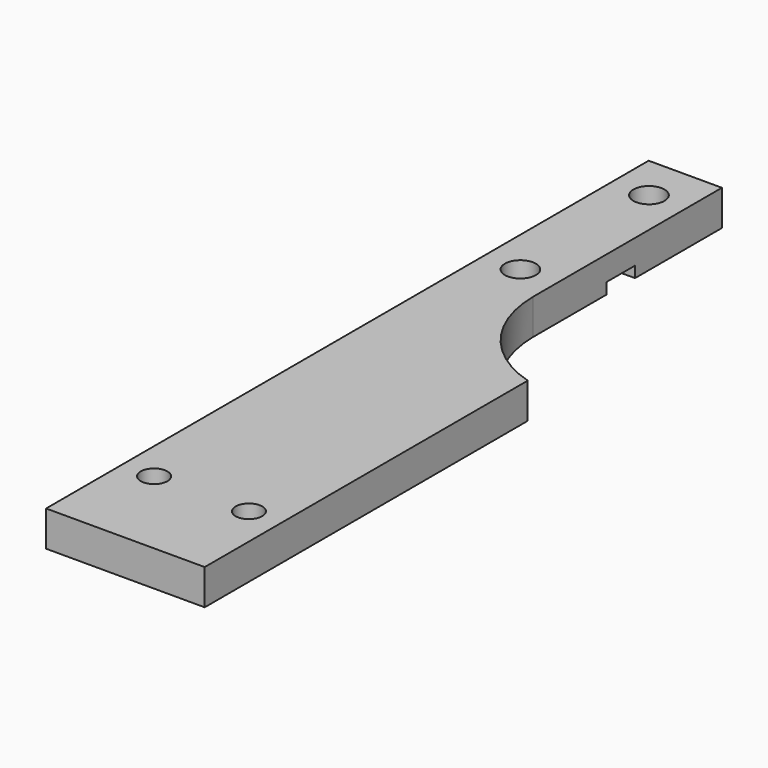
from build123d import *

# Parameters (mm, degrees)
PAD002_DEPTH    = 4
SKETCH008_R     = 1.75
SKETCH008_R_2   = 1.5
POCKET009_DEPTH = 5
SKETCH009_W     = 10.460062
SKETCH009_H     = 4
POCKET001_DEPTH = 1.25


with BuildPart() as part:
    # Sketch007 → Pad002 (new body)
    with BuildSketch(Plane.XY):
        with BuildLine():
            Line((-4.135, 20), (-4.135, -65))
            Line((-4.135, -65), (13.765, -65))
            Line((13.765, -65), (13.765, -19.428397))
            ThreePointArc((4.135, -6.621152), (6.848343, -14.605049), (13.765, -19.428397))
            Line((4.135, 20), (4.135, -6.621152))
            Line((4.135, 20), (-4.135, 20))
        make_face()
    extrude(amount=PAD002_DEPTH)

    # Sketch008 (on Face8 of Pad002) → Pocket009 (cut)
    with BuildSketch(Plane.XY.offset(4)):
        with Locations((0, 14.875)):
            Circle(SKETCH008_R)
        with Locations((0, -3.255)):
            Circle(SKETCH008_R)
        with Locations((-0.54, -54.255)):
            Circle(SKETCH008_R_2)
        with Locations((10.16, -54.255)):
            Circle(SKETCH008_R_2)
    extrude(amount=-POCKET009_DEPTH, mode=Mode.SUBTRACT)

    # Sketch009 (on Face4 of Pocket009) → Pocket001 (cut)
    with BuildSketch(Plane(origin=(0, 0, 0), x_dir=(1, 0, 0), z_dir=(0, 0, -1))):
        with Locations((-0.716524, -5.745)):
            Rectangle(SKETCH009_W, SKETCH009_H)
    extrude(amount=-POCKET001_DEPTH, mode=Mode.SUBTRACT)


solid = part.part
